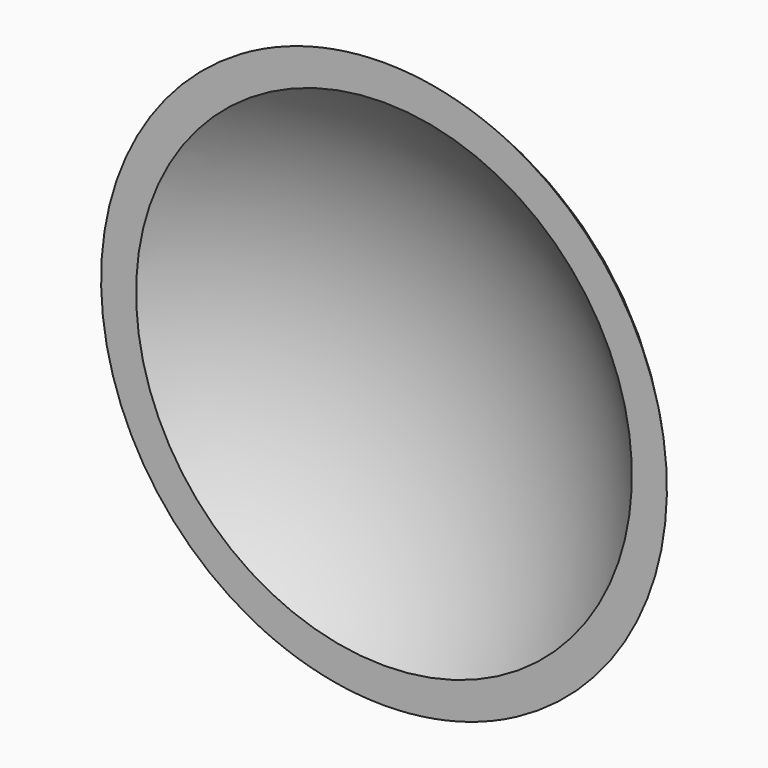
from build123d import *

# Parameters (mm, degrees)
BOX_W           = 60
BOX_H           = 60
BOX_DEPTH       = 60
SPHERE001_ANGLE = 180
SPHERE_ANGLE    = 180


with BuildPart() as cube:
    # Box → Box (new body)
    with BuildSketch(Plane(origin=(-30, -40, -30), x_dir=(1, 0, 0), z_dir=(0, 0, 1))):
        with Locations((30, 30)):
            Rectangle(BOX_W, BOX_H)
    extrude(amount=BOX_DEPTH)


with BuildPart() as inner:
    # Sphere001 → Sphere001 (revolve)
    with BuildSketch(Plane.XZ):
        with BuildLine():
            ThreePointArc((0, -28), (28, 0), (0, 28))
            Line((0, 28), (0, -28))
        make_face()
    revolve(axis=Axis((0, 0, 0), (0, 0, 1)), revolution_arc=SPHERE001_ANGLE)


with BuildPart() as cutshell:
    # Sphere → Sphere (revolve)
    with BuildSketch(Plane.XZ):
        with BuildLine():
            ThreePointArc((0, -30), (30, 0), (0, 30))
            Line((0, 30), (0, -30))
        make_face()
    revolve(axis=Axis((0, 0, 0), (0, 0, 1)), revolution_arc=SPHERE_ANGLE)

    # Cut: cut Inner
    add(inner.part, mode=Mode.SUBTRACT)

    # Cut001: cut Cube
    add(cube.part, mode=Mode.SUBTRACT)


solid = cutshell.part
